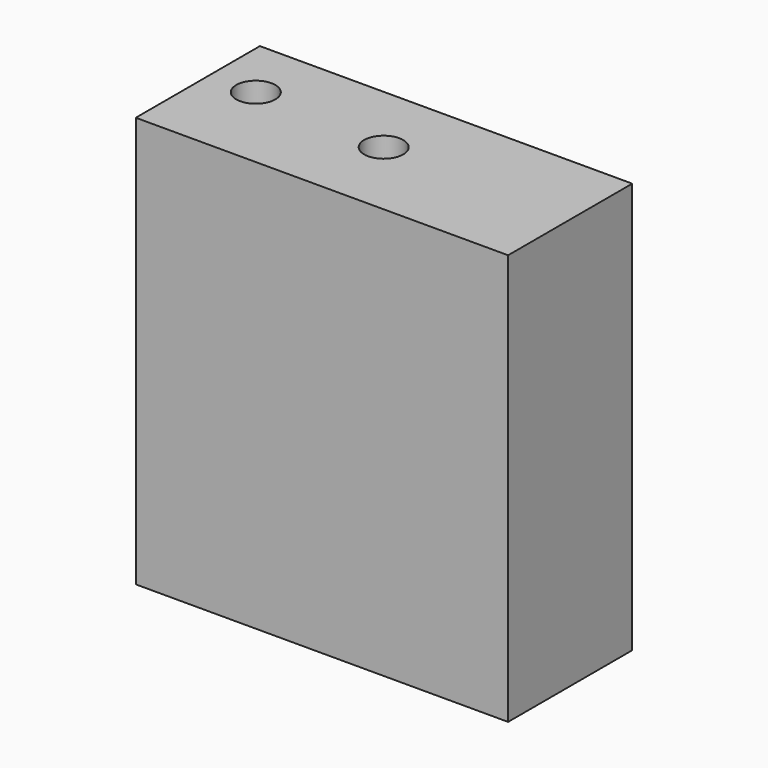
from build123d import *

# Parameters (mm, degrees)
F0_W     = 38.1
F0_H     = 42.037
F1_DEPTH = 15.875
F3_D     = 4


with BuildPart() as f1:
    # F0 (on Front) → F1 (new body)
    with BuildSketch(Plane.XZ):
        with Locations((-7.488622, 21.0185)):
            Rectangle(F0_W, F0_H)
    extrude(amount=F1_DEPTH)

    # F3 (through all)
    with Locations(Plane(origin=(0, 0, 0), x_dir=(1, 0, 0), z_dir=(0, 0, -1))):
        with Locations((-7.88276, 7.485884), (-21.808967, 6.43485)):
            Hole(F3_D / 2)


solid = f1.part
